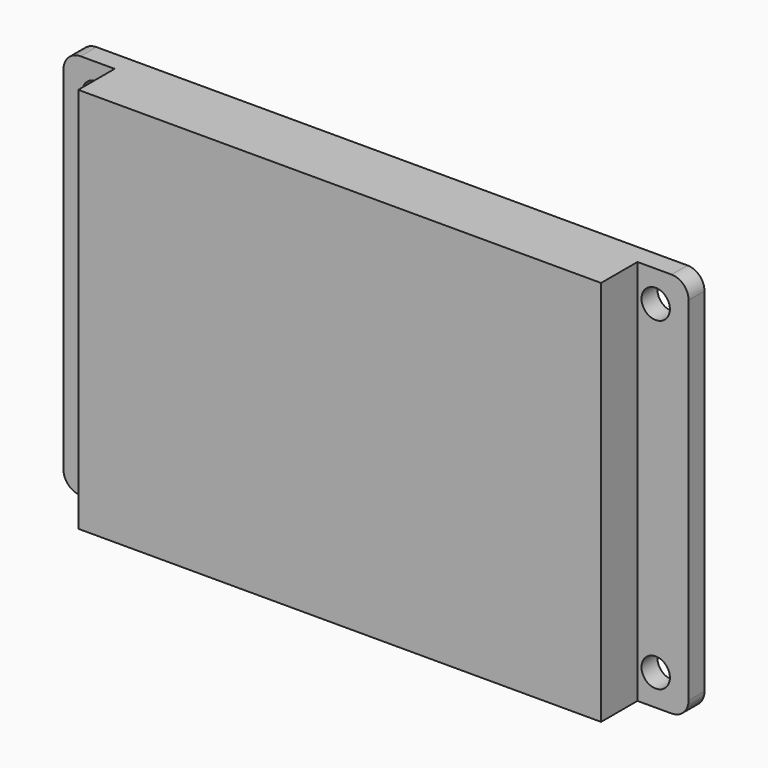
from build123d import *

# Parameters (mm, degrees)
SKETCH_W     = 46.736
SKETCH_H     = 34.544
PAD_DEPTH    = 4.064
SKETCH001_W  = 55.88
SKETCH001_H  = 34.544
PAD001_DEPTH = 1.778
SKETCH002_R  = 1.27
POCKET_DEPTH = 1.779
FILLET_R     = 1.524


with BuildPart() as part:
    # Sketch → Pad (new body)
    with BuildSketch(Plane.XZ):
        Rectangle(SKETCH_W, SKETCH_H)
    extrude(amount=PAD_DEPTH)

    # Sketch001 (on Face5 of Pad) → Pad001 (join)
    with BuildSketch(Plane(origin=(0, 0, 0), x_dir=(1, 0, 0), z_dir=(0, 1, 0))):
        Rectangle(SKETCH001_W, SKETCH001_H)
    extrude(amount=PAD001_DEPTH)

    # Sketch002 (on Face7 of Pad001) → Pocket (cut, through all)
    with BuildSketch(Plane.XZ):
        with Locations((25, 14.5)):
            Circle(SKETCH002_R)
        with Locations((-25, 14.5)):
            Circle(SKETCH002_R)
        with Locations((-25, -14.5)):
            Circle(SKETCH002_R)
        with Locations((25, -14.5)):
            Circle(SKETCH002_R)
    extrude(amount=-POCKET_DEPTH, mode=Mode.SUBTRACT)

    # Fillet
    fillet_edges = [part.edges().sort_by_distance(p)[0] for p in [
        (27.94, 0.889, -17.272),
        (27.94, 0.889, 17.272),
        (-27.94, 0.889, 17.272),
        (-27.94, 0.889, -17.272),
    ]]
    fillet(fillet_edges, radius=FILLET_R)


with BuildPart() as part_1:
    # Body placement: moved
    add(part.part.moved(Location((-3.273552, 2.72796, 0))))


solid = part_1.part
